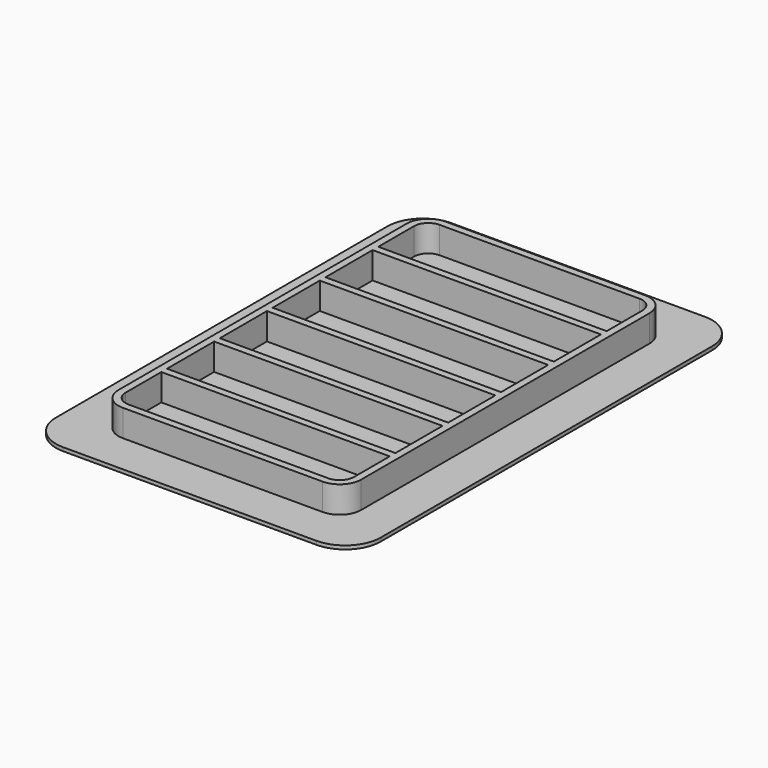
from build123d import *

# Parameters (mm, degrees)
F0_W     = 64
F0_H     = 16.5
F1_DEPTH = 1
F2_DEPTH = 8.5
F0_H_2   = 2
F3_DEPTH = 8.5


with BuildPart() as f1:
    # F0 (on Top) → F1 (new body)
    with BuildSketch(Plane.XY):
        with BuildLine():
            Line((34.994369, 52.165454), (-36.005631, 52.165454))
            ThreePointArc((-36.005631, 52.165454), (-43.076699, 49.236522), (-46.005631, 42.165454))
            Line((-46.005631, 42.165454), (-46.005631, -73.834546))
            ThreePointArc((-46.005631, -73.834546), (-43.076699, -80.905614), (-36.005631, -83.834546))
            Line((-36.005631, -83.834546), (34.994369, -83.834546))
            ThreePointArc((34.994369, -83.834546), (42.065437, -80.905614), (44.994369, -73.834546))
            Line((44.994369, -73.834546), (44.994369, 42.165454))
            ThreePointArc((44.994369, 42.165454), (42.065437, 49.236522), (34.994369, 52.165454))
        make_face()
        with BuildLine():
            ThreePointArc((-38.505631, 34.665454), (-35.576699, 41.736522), (-28.505631, 44.665454))
            Line((-28.505631, 44.665454), (27.494369, 44.665454))
            ThreePointArc((27.494369, 44.665454), (34.565437, 41.736522), (37.494369, 34.665454))
            Line((37.494369, 34.665454), (37.494369, -66.334546))
            ThreePointArc((37.494369, -66.334546), (34.565437, -73.405614), (27.494369, -76.334546))
            Line((27.494369, -76.334546), (-28.505631, -76.334546))
            ThreePointArc((-28.505631, -76.334546), (-35.576699, -73.405614), (-38.505631, -66.334546))
            Line((-38.505631, -66.334546), (-38.505631, 34.665454))
        make_face(mode=Mode.SUBTRACT)
        with BuildLine():
            Line((27.494369, 44.665454), (-28.505631, 44.665454))
            ThreePointArc((-28.505631, 44.665454), (-35.576699, 41.736522), (-38.505631, 34.665454))
            Line((-38.505631, 34.665454), (-38.505631, -66.334546))
            ThreePointArc((-38.505631, -66.334546), (-35.576699, -73.405614), (-28.505631, -76.334546))
            Line((-28.505631, -76.334546), (27.494369, -76.334546))
            ThreePointArc((27.494369, -76.334546), (34.565437, -73.405614), (37.494369, -66.334546))
            Line((37.494369, -66.334546), (37.494369, 34.665454))
            ThreePointArc((37.494369, 34.665454), (34.565437, 41.736522), (27.494369, 44.665454))
        make_face()
        with BuildLine():
            ThreePointArc((-36.505631, 34.665454), (-34.162485, 40.322309), (-28.505631, 42.665454))
            Line((-28.505631, 42.665454), (27.494369, 42.665454))
            ThreePointArc((27.494369, 42.665454), (33.151223, 40.322309), (35.494369, 34.665454))
            Line((35.494369, 34.665454), (35.494369, -66.334546))
            ThreePointArc((35.494369, -66.334546), (33.151223, -71.9914), (27.494369, -74.334546))
            Line((27.494369, -74.334546), (-28.505631, -74.334546))
            ThreePointArc((-28.505631, -74.334546), (-34.162485, -71.9914), (-36.505631, -66.334546))
            Line((-36.505631, -66.334546), (-36.505631, 34.665454))
        make_face(mode=Mode.SUBTRACT)
        with BuildLine():
            Line((27.494369, 42.665454), (-28.505631, 42.665454))
            ThreePointArc((-28.505631, 42.665454), (-34.162485, 40.322309), (-36.505631, 34.665454))
            Line((-36.505631, 34.665454), (-36.505631, -66.334546))
            ThreePointArc((-36.505631, -66.334546), (-34.162485, -71.9914), (-28.505631, -74.334546))
            Line((-28.505631, -74.334546), (27.494369, -74.334546))
            ThreePointArc((27.494369, -74.334546), (33.151223, -71.9914), (35.494369, -66.334546))
            Line((35.494369, -66.334546), (35.494369, 34.665454))
            ThreePointArc((35.494369, 34.665454), (33.151223, 40.322309), (27.494369, 42.665454))
        make_face()
        with BuildLine():
            ThreePointArc((-34.505631, 34.665454), (-32.748272, 38.908095), (-28.505631, 40.665454))
            Line((-28.505631, 40.665454), (27.494369, 40.665454))
            ThreePointArc((27.494369, 40.665454), (31.73701, 38.908095), (33.494369, 34.665454))
            Line((33.494369, 34.665454), (33.494369, -66.334546))
            ThreePointArc((33.494369, -66.334546), (31.73701, -70.577186), (27.494369, -72.334546))
            Line((27.494369, -72.334546), (-28.505631, -72.334546))
            ThreePointArc((-28.505631, -72.334546), (-32.748272, -70.577186), (-34.505631, -66.334546))
            Line((-34.505631, -66.334546), (-34.505631, 34.665454))
        make_face(mode=Mode.SUBTRACT)
        with BuildLine():
            Line((27.494369, 40.665454), (-28.505631, 40.665454))
            ThreePointArc((-28.505631, 40.665454), (-32.748272, 38.908095), (-34.505631, 34.665454))
            Line((-34.505631, 34.665454), (-34.505631, -66.334546))
            ThreePointArc((-34.505631, -66.334546), (-32.748272, -70.577186), (-28.505631, -72.334546))
            Line((-28.505631, -72.334546), (27.494369, -72.334546))
            ThreePointArc((27.494369, -72.334546), (31.73701, -70.577186), (33.494369, -66.334546))
            Line((33.494369, -66.334546), (33.494369, 34.665454))
            ThreePointArc((33.494369, 34.665454), (31.73701, 38.908095), (27.494369, 40.665454))
        make_face()
        with BuildLine():
            ThreePointArc((-32.505631, 34.665454), (-31.334058, 37.493881), (-28.505631, 38.665454))
            Line((-28.505631, 38.665454), (27.494369, 38.665454))
            ThreePointArc((27.494369, 38.665454), (30.322796, 37.493881), (31.494369, 34.665454))
            Line((31.494369, 34.665454), (31.494369, 22.165454))
            Line((31.494369, 22.165454), (31.494369, 20.165454))
            Line((31.494369, 20.165454), (31.494369, 3.665454))
            Line((31.494369, 3.665454), (31.494369, 1.665454))
            Line((31.494369, 1.665454), (31.494369, -14.834546))
            Line((31.494369, -14.834546), (31.494369, -16.834546))
            Line((31.494369, -16.834546), (31.494369, -33.334546))
            Line((31.494369, -33.334546), (31.494369, -35.334546))
            Line((31.494369, -35.334546), (31.494369, -51.834546))
            Line((31.494369, -51.834546), (31.494369, -53.834546))
            Line((31.494369, -53.834546), (31.494369, -66.334546))
            ThreePointArc((31.494369, -66.334546), (30.322796, -69.162973), (27.494369, -70.334546))
            Line((27.494369, -70.334546), (-28.505631, -70.334546))
            ThreePointArc((-28.505631, -70.334546), (-31.334058, -69.162973), (-32.505631, -66.334546))
            Line((-32.505631, -66.334546), (-32.505631, -53.834546))
            Line((-32.505631, -53.834546), (-32.505631, -51.834546))
            Line((-32.505631, -51.834546), (-32.505631, -35.334546))
            Line((-32.505631, -35.334546), (-32.505631, -33.334546))
            Line((-32.505631, -33.334546), (-32.505631, -16.834546))
            Line((-32.505631, -16.834546), (-32.505631, -14.834546))
            Line((-32.505631, -14.834546), (-32.505631, 1.665454))
            Line((-32.505631, 1.665454), (-32.505631, 3.665454))
            Line((-32.505631, 3.665454), (-32.505631, 20.165454))
            Line((-32.505631, 20.165454), (-32.505631, 22.165454))
            Line((-32.505631, 22.165454), (-32.505631, 34.665454))
        make_face(mode=Mode.SUBTRACT)
        with BuildLine():
            Line((27.494369, 38.665454), (-28.505631, 38.665454))
            ThreePointArc((-28.505631, 38.665454), (-31.334058, 37.493881), (-32.505631, 34.665454))
            Line((-32.505631, 34.665454), (-32.505631, 22.165454))
            Line((-32.505631, 22.165454), (31.494369, 22.165454))
            Line((31.494369, 22.165454), (31.494369, 34.665454))
            ThreePointArc((31.494369, 34.665454), (30.322796, 37.493881), (27.494369, 38.665454))
        make_face()
        with Locations((-0.505631, 11.915454)):
            Rectangle(F0_W, F0_H)
        with Locations((-0.505631, -6.584546)):
            Rectangle(F0_W, F0_H)
        with Locations((-0.505631, -25.084546)):
            Rectangle(F0_W, F0_H)
        with Locations((-0.505631, -43.584546)):
            Rectangle(F0_W, F0_H)
        with BuildLine():
            Line((31.494369, -53.834546), (-32.505631, -53.834546))
            Line((-32.505631, -53.834546), (-32.505631, -66.334546))
            ThreePointArc((-32.505631, -66.334546), (-31.334058, -69.162973), (-28.505631, -70.334546))
            Line((-28.505631, -70.334546), (27.494369, -70.334546))
            ThreePointArc((27.494369, -70.334546), (30.322796, -69.162973), (31.494369, -66.334546))
            Line((31.494369, -66.334546), (31.494369, -53.834546))
        make_face()
    extrude(amount=F1_DEPTH)



with BuildPart() as f2:
    # F0 (on Top) → F2 (new body)
    with BuildSketch(Plane.XY):
        with BuildLine():
            Line((27.494369, 40.665454), (-28.505631, 40.665454))
            ThreePointArc((-28.505631, 40.665454), (-32.748272, 38.908095), (-34.505631, 34.665454))
            Line((-34.505631, 34.665454), (-34.505631, -66.334546))
            ThreePointArc((-34.505631, -66.334546), (-32.748272, -70.577186), (-28.505631, -72.334546))
            Line((-28.505631, -72.334546), (27.494369, -72.334546))
            ThreePointArc((27.494369, -72.334546), (31.73701, -70.577186), (33.494369, -66.334546))
            Line((33.494369, -66.334546), (33.494369, 34.665454))
            ThreePointArc((33.494369, 34.665454), (31.73701, 38.908095), (27.494369, 40.665454))
        make_face()
        with BuildLine():
            ThreePointArc((-32.505631, 34.665454), (-31.334058, 37.493881), (-28.505631, 38.665454))
            Line((-28.505631, 38.665454), (27.494369, 38.665454))
            ThreePointArc((27.494369, 38.665454), (30.322796, 37.493881), (31.494369, 34.665454))
            Line((31.494369, 34.665454), (31.494369, 22.165454))
            Line((31.494369, 22.165454), (31.494369, 20.165454))
            Line((31.494369, 20.165454), (31.494369, 3.665454))
            Line((31.494369, 3.665454), (31.494369, 1.665454))
            Line((31.494369, 1.665454), (31.494369, -14.834546))
            Line((31.494369, -14.834546), (31.494369, -16.834546))
            Line((31.494369, -16.834546), (31.494369, -33.334546))
            Line((31.494369, -33.334546), (31.494369, -35.334546))
            Line((31.494369, -35.334546), (31.494369, -51.834546))
            Line((31.494369, -51.834546), (31.494369, -53.834546))
            Line((31.494369, -53.834546), (31.494369, -66.334546))
            ThreePointArc((31.494369, -66.334546), (30.322796, -69.162973), (27.494369, -70.334546))
            Line((27.494369, -70.334546), (-28.505631, -70.334546))
            ThreePointArc((-28.505631, -70.334546), (-31.334058, -69.162973), (-32.505631, -66.334546))
            Line((-32.505631, -66.334546), (-32.505631, -53.834546))
            Line((-32.505631, -53.834546), (-32.505631, -51.834546))
            Line((-32.505631, -51.834546), (-32.505631, -35.334546))
            Line((-32.505631, -35.334546), (-32.505631, -33.334546))
            Line((-32.505631, -33.334546), (-32.505631, -16.834546))
            Line((-32.505631, -16.834546), (-32.505631, -14.834546))
            Line((-32.505631, -14.834546), (-32.505631, 1.665454))
            Line((-32.505631, 1.665454), (-32.505631, 3.665454))
            Line((-32.505631, 3.665454), (-32.505631, 20.165454))
            Line((-32.505631, 20.165454), (-32.505631, 22.165454))
            Line((-32.505631, 22.165454), (-32.505631, 34.665454))
        make_face(mode=Mode.SUBTRACT)
    extrude(amount=F2_DEPTH)


with BuildPart() as f1_1:
    add(f1.part)

    add(f2.part)  # F3 merges F2
    # F0 (on Top) → F3 (join)
    with BuildSketch(Plane.XY):
        with Locations((-0.505631, 21.165454)):
            Rectangle(F0_W, F0_H_2)
        with Locations((-0.505631, 2.665454)):
            Rectangle(F0_W, F0_H_2)
        with Locations((-0.505631, -15.834546)):
            Rectangle(F0_W, F0_H_2)
        with Locations((-0.505631, -34.334546)):
            Rectangle(F0_W, F0_H_2)
        with Locations((-0.505631, -52.834546)):
            Rectangle(F0_W, F0_H_2)
    extrude(amount=F3_DEPTH)


solid = f1_1.part
